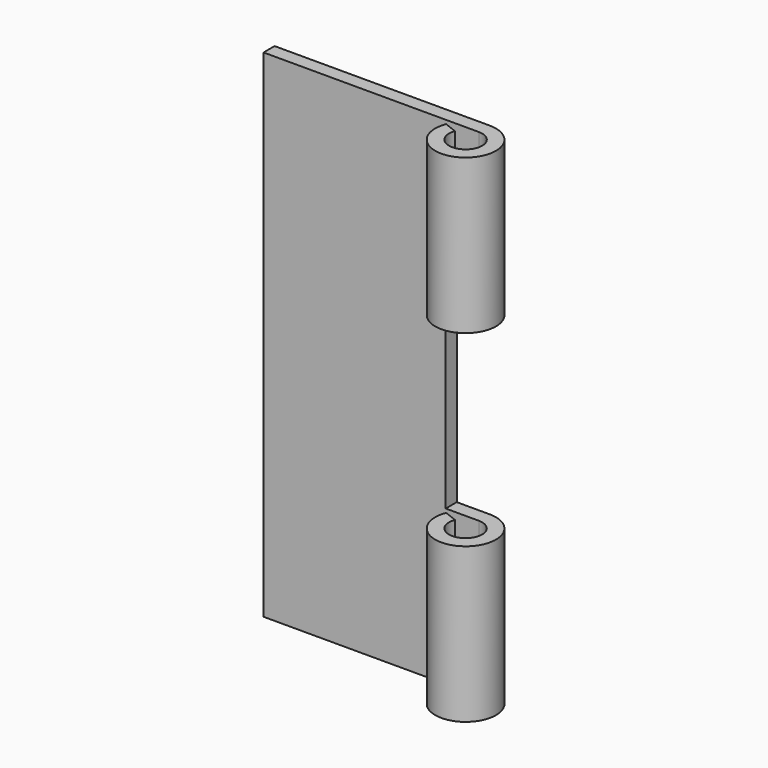
from build123d import *

# Parameters (mm, degrees)
F1_DEPTH = 45
F2_W     = 15
F2_H     = 20
F3_DEPTH = 17


with BuildPart() as f1:
    # F0 (on Top) → F1 (new body, symmetric)
    with BuildSketch(Plane.XY):
        with BuildLine():
            Line((-2.794623, 1.090909), (-5.123475, 2))
            ThreePointArc((-5.123475, 2), (3.102418, -4.541476), (0, 5.5))
            Line((0, 5.5), (-39, 5.5))
            Line((-39, 5.5), (-39, 3))
            Line((-39, 3), (0, 3))
            ThreePointArc((0, 3), (1.692228, -2.477168), (-2.794623, 1.090909))
        make_face()
    extrude(amount=F1_DEPTH, both=True)

    # F2 (on Top) → F3 (cut, symmetric)
    with BuildSketch(Plane.XY):
        with Locations((1.5, 0)):
            Rectangle(F2_W, F2_H)
    extrude(amount=F3_DEPTH, both=True, mode=Mode.SUBTRACT)


solid = f1.part
